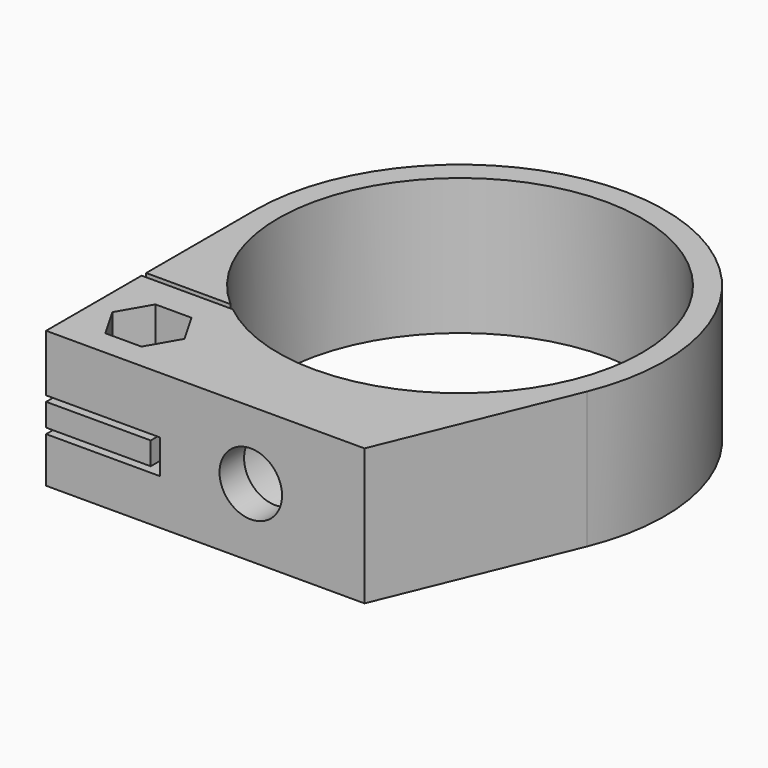
from build123d import *

# Parameters (mm, degrees)
F0_R          = 16
F1_DEPTH      = 6
F1_DEPTH_BACK = 6
F4_DEPTH      = 25
F5_W          = 0.5
F5_H          = 4
F5_H_2        = 5
F6_DEPTH      = 8.0135078223
F8_D          = 3
F9_DEPTH      = 3.5
F10_R         = 3
F11_DEPTH     = 2.5
F13_D         = 5.5
F13_DEPTH     = 23.001
F14_R         = 4.75
F15_DEPTH     = 20.3


with BuildPart() as f1:
    # F0 (on Top) → F1 (new body, two sides)
    with BuildSketch(Plane.XY) as f1_sk:
        with BuildLine():
            Line((10, -23), (16.6457856397, -6.8496584175))
            ThreePointArc((16.6457856397, -6.8496584175), (3.4911214878, 17.6582012322), (-18, 0))
            Line((-18, 0), (-18, -23))
            Line((-18, -23), (10, -23))
        make_face()
        Circle(F0_R, mode=Mode.SUBTRACT)
    extrude(amount=F1_DEPTH)
    extrude(f1_sk.sketch, amount=-F1_DEPTH_BACK)

    # F3 (on offset) → F4 (cut)
    with BuildSketch(Plane.XZ.offset(12)):
        Polygon((-8.8, -1.5), (-18, -1.5), (-18, -2), (-8, -2), (-8, 1), (-18, 1), (-18, 0.5), (-8.8, 0.5), align=None)
    extrude(amount=F4_DEPTH, mode=Mode.SUBTRACT)

    # F5 (on face) → F6 (cut, through all)
    with BuildSketch(Plane(origin=(-18, 0, 0), x_dir=(0, -1, 0), z_dir=(-1, 0, 0))):
        with Locations((12.25, -4)):
            Rectangle(F5_W, F5_H)
        with Locations((12.25, 3.5)):
            Rectangle(F5_W, F5_H_2)
    extrude(amount=-F6_DEPTH, mode=Mode.SUBTRACT)

    # F8 (through all)
    with Locations(Plane.XY.offset(6)):
        with Locations((-13, -18)):
            Hole(F8_D / 2)

    # F7 (on face) → F9 (cut)
    with BuildSketch(Plane.XY.offset(6)):
        Polygon((-11.4122867597, -20.75), (-9.8245735195, -18), (-11.4122867597, -15.25), (-14.5877132403, -15.25), (-16.1754264805, -18), (-14.5877132403, -20.75), align=None)
    extrude(amount=-F9_DEPTH, mode=Mode.SUBTRACT)

    # F10 (on face) → F11 (cut)
    with BuildSketch(Plane(origin=(0, 0, -6), x_dir=(1, 0, 0), z_dir=(0, 0, -1))):
        with Locations((-13, 18)):
            Circle(F10_R)
    extrude(amount=-F11_DEPTH, mode=Mode.SUBTRACT)

    # F13 (through all, one way)
    with BuildSketch(Plane(origin=(0, 0, 0), x_dir=(1, 0, 0), z_dir=(0, 1, 0))):
        with Locations((0, 0)):
            Circle(F13_D / 2)
    extrude(amount=-F13_DEPTH, mode=Mode.SUBTRACT)

    # F14 (on Front) → F15 (cut)
    with BuildSketch(Plane.XZ):
        Circle(F14_R)
    extrude(amount=F15_DEPTH, mode=Mode.SUBTRACT)


solid = f1.part
